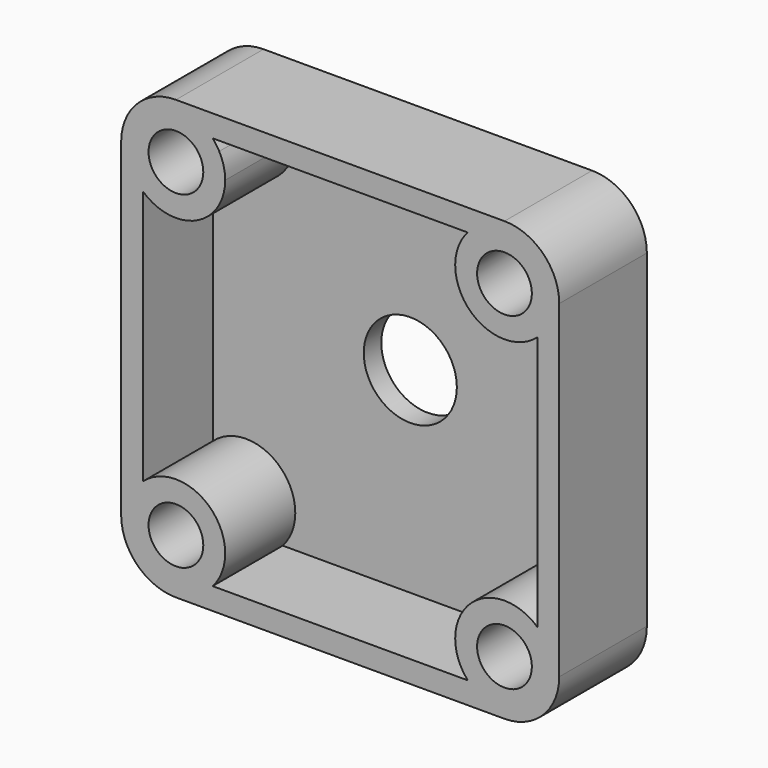
from build123d import *

# Parameters (mm, degrees)
F0_R     = 6.35
F1_DEPTH = 25.4
F2_R     = 12.7
F3_R     = 12.7
F4_T     = -5.08
F6_R     = 10.7952537359
F5_DEPTH = 5.08


with BuildPart() as f1:
    # F0 (on Front) → F1 (new body)
    with BuildSketch(Plane.XZ):
        with BuildLine():
            Line((0, 63.5), (-36.1179809239, 63.5))
            ThreePointArc((-36.1179809239, 63.5), (-34.6565238325, 58.535797401), (-32.5163963302, 53.8242139571))
            ThreePointArc((-32.5163963302, 53.8242139571), (1.97e-08, 34.4563321571), (32.516396349, 53.8242139918))
            ThreePointArc((32.516396349, 53.8242139918), (34.6565238393, 58.5357974195), (36.1179809239, 63.5))
            Line((36.1179809239, 63.5), (0, 63.5))
        make_face()
        with BuildLine():
            Line((-36.1179809239, 63.5), (-50.8, 63.5))
            Line((-50.8, 63.5), (-50.8, -38.1))
            Line((-50.8, -38.1), (50.8, -38.1))
            Line((50.8, -38.1), (50.8, 63.5))
            Line((50.8, 63.5), (36.1179809239, 63.5))
            ThreePointArc((36.1179809239, 63.5), (34.6565238393, 58.5357974195), (32.516396349, 53.8242139918))
            ThreePointArc((32.516396349, 53.8242139918), (1.97e-08, 34.4563321571), (-32.5163963302, 53.8242139571))
            ThreePointArc((-32.5163963302, 53.8242139571), (-34.6565238325, 58.535797401), (-36.1179809239, 63.5))
        make_face()
        with Locations((-38.1, -25.4)):
            Circle(F0_R, mode=Mode.SUBTRACT)
        with Locations((38.1, -25.4)):
            Circle(F0_R, mode=Mode.SUBTRACT)
        with BuildLine():
            ThreePointArc((-31.75, 50.8), (-44.2554196974, 49.2400934809), (-32.5163963302, 53.8242139571))
            ThreePointArc((-32.5163963302, 53.8242139571), (-31.9445803026, 52.3599065191), (-31.75, 50.8))
        make_face(mode=Mode.SUBTRACT)
        with BuildLine():
            ThreePointArc((44.45, 50.8), (36.5400934618, 44.6445803074), (32.516396349, 53.8242139918))
            ThreePointArc((32.516396349, 53.8242139918), (39.6599065382, 56.9554196926), (44.45, 50.8))
        make_face(mode=Mode.SUBTRACT)
        with BuildLine():
            Line((0, 63.5), (-36.1179809239, 63.5))
            ThreePointArc((-36.1179809239, 63.5), (-34.6565238325, 58.535797401), (-32.5163963302, 53.8242139571))
            ThreePointArc((-32.5163963302, 53.8242139571), (1.97e-08, 34.4563321571), (32.516396349, 53.8242139918))
            ThreePointArc((32.516396349, 53.8242139918), (34.6565238393, 58.5357974195), (36.1179809239, 63.5))
            Line((36.1179809239, 63.5), (0, 63.5))
        make_face()
    extrude(amount=F1_DEPTH)

    # F2
    f2_edges = [f1.edges().sort_by_distance(p)[0] for p in [
        (-50.8, -12.7, -38.1),
        (50.8, -12.7, -38.1),
    ]]
    fillet(f2_edges, radius=F2_R)

    # F3
    f3_edges = [f1.edges().sort_by_distance(p)[0] for p in [
        (-50.8, -12.7, 63.5),
        (50.8, -12.7, 63.5),
    ]]
    fillet(f3_edges, radius=F3_R)

    # F4
    f4_openings = [f1.faces().sort_by_distance(p)[0] for p in [
        (0, -25.4, 12.7),
    ]]
    offset(amount=F4_T, openings=f4_openings, kind=Kind.INTERSECTION)

    # F6 (on face) → F5 (cut, through all)
    with BuildSketch(Plane.XZ):
        with Locations((0, 12.4445185065)):
            Circle(F6_R)
    extrude(amount=F5_DEPTH, mode=Mode.SUBTRACT)


solid = f1.part
